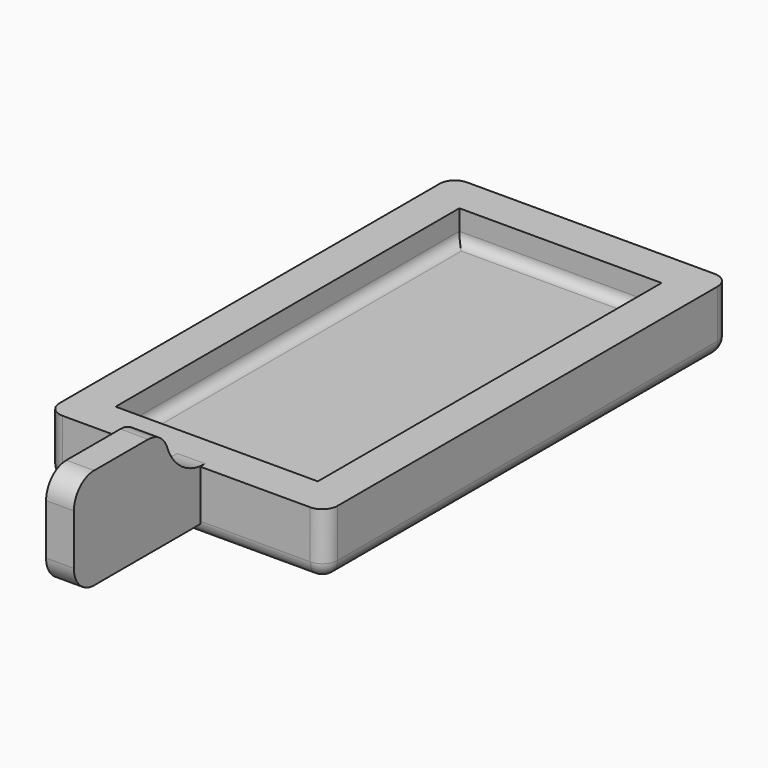
from build123d import *

# Parameters (mm, degrees)
F0_W     = 11
F0_H     = 20
F1_DEPTH = 2.5
F2_W     = 8
F2_H     = 17
F3_DEPTH = 1.2
F4_R     = 0.4
F5_R     = 0.6
F6_W     = 1.1
F6_H     = 6.5
F7_DEPTH = 2
F8_R     = 2
F9_DEPTH = 25
F10_R    = 1


with BuildPart() as f1:
    # F0 (on Top) → F1 (new body)
    with BuildSketch(Plane.XY):
        Rectangle(F0_W, F0_H)
    extrude(amount=-F1_DEPTH)

    # F2 (on face) → F3 (cut)
    with BuildSketch(Plane.XY):
        Rectangle(F2_W, F2_H)
    extrude(amount=-F3_DEPTH, mode=Mode.SUBTRACT)

    # F4
    f4_edges = [f1.edges().sort_by_distance(p)[0] for p in [
        (4, 0, -1.2),
        (0, 8.5, -1.2),
        (-4, 0, -1.2),
        (0, -8.5, -1.2),
    ]]
    fillet(f4_edges, radius=F4_R)

    # F5
    f5_edges = [f1.edges().sort_by_distance(p)[0] for p in [
        (5.5, 0, -2.5),
        (0, 10, -2.5),
        (-5.5, 0, -2.5),
        (0, -10, -2.5),
        (5.5, -10, -1.25),
        (-5.5, -10, -1.25),
        (-5.5, 10, -1.25),
        (5.5, 10, -1.25),
    ]]
    fillet(f5_edges, radius=F5_R)

    # F6 (on face) → F7 (join, symmetric)
    with BuildSketch(Plane.XY):
        with Locations((0, -13)):
            Rectangle(F6_W, F6_H)
    extrude(amount=F7_DEPTH, both=True)

    # F8 (on face) → F9 (cut)
    with BuildSketch(Plane.YZ.offset(0.55)):
        with Locations((-9.75, 2)):
            Circle(F8_R)
    extrude(amount=-F9_DEPTH, mode=Mode.SUBTRACT)

    # F10
    f10_edges = [f1.edges().sort_by_distance(p)[0] for p in [
        (0, -16.25, 2),
        (0, -16.25, -2),
        (0, -11.75, 2),
    ]]
    fillet(f10_edges, radius=F10_R)


solid = f1.part
